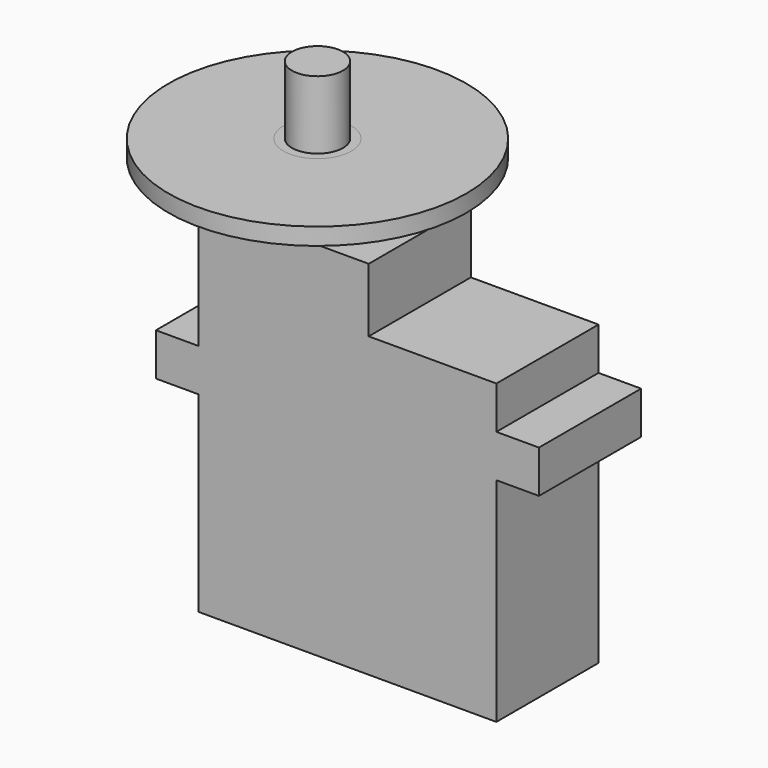
from build123d import *

# Parameters (mm, degrees)
F0_W      = 22.225
F0_H      = 22.225
F1_DEPTH  = 9.525
F2_W      = 12.7
F2_H      = 9.525
F3_DEPTH  = 4.7625
F4_W      = 9.525
F4_H      = 3.175
F5_DEPTH  = 3.175
F6_W      = 9.525
F6_H      = 3.175
F7_DEPTH  = 3.175
F9_DEPTH  = 2.54
F10_R     = 11.1125
F10_R_2   = 2.54
F11_DEPTH = 1.27
F9_FACE_R = 2.54
F12_DEPTH = 1.27
F13_R     = 1.905
F14_DEPTH = 5.08


with BuildPart() as f1:
    # F0 (on Front) → F1 (new body)
    with BuildSketch(Plane.XZ):
        with Locations((3.77393, 13.664843)):
            Rectangle(F0_W, F0_H)
    extrude(amount=-F1_DEPTH)

    # F2 (on face) → F3 (join)
    with BuildSketch(Plane.XY.offset(24.777343)):
        with Locations((-0.98857, 4.7625)):
            Rectangle(F2_W, F2_H)
    extrude(amount=F3_DEPTH)

    # F4 (on face) → F5 (join)
    with BuildSketch(Plane.YZ.offset(14.88643)):
        with Locations((4.7625, 20.014843)):
            Rectangle(F4_W, F4_H)
    extrude(amount=F5_DEPTH)

    # F6 (on face) → F7 (join)
    with BuildSketch(Plane(origin=(-7.33857, 0, 0), x_dir=(0, -1, 0), z_dir=(-1, 0, 0))):
        with Locations((-4.7625, 18.427343)):
            Rectangle(F6_W, F6_H)
    extrude(amount=F7_DEPTH)

    # F8 (on face) → F9 (join)
    with BuildSketch(Plane.XY.offset(29.539843)):
        with BuildLine():
            ThreePointArc((0.26873, 4.7625), (-2.27127, 7.3025), (-4.81127, 4.7625))
            ThreePointArc((-4.81127, 4.7625), (-2.27127, 2.2225), (0.26873, 4.7625))
        make_face()
    extrude(amount=F9_DEPTH)


with BuildPart() as f11:
    # F10 (on face) → F11 (new body)
    with BuildSketch(Plane.XY.offset(32.079843)):
        with Locations((-2.27127, 4.7625)):
            Circle(F10_R)
        with Locations((-2.27127, 4.7625)):
            Circle(F10_R_2, mode=Mode.SUBTRACT)
    extrude(amount=F11_DEPTH)


with BuildPart() as f12:
    # F9_face (on face) → F12 (new body)
    with BuildSketch(Plane(origin=(-2.27127, 4.7625, 32.079843), x_dir=(1, 0, 0), z_dir=(0, 0, 1))):
        Circle(F9_FACE_R)
    extrude(amount=F12_DEPTH)

    # F13 (on face) → F14 (join)
    with BuildSketch(Plane.XY.offset(33.349843)):
        with Locations((-2.27127, 4.7625)):
            Circle(F13_R)
    extrude(amount=F14_DEPTH)


solid = Compound([f1.part, f11.part, f12.part])
